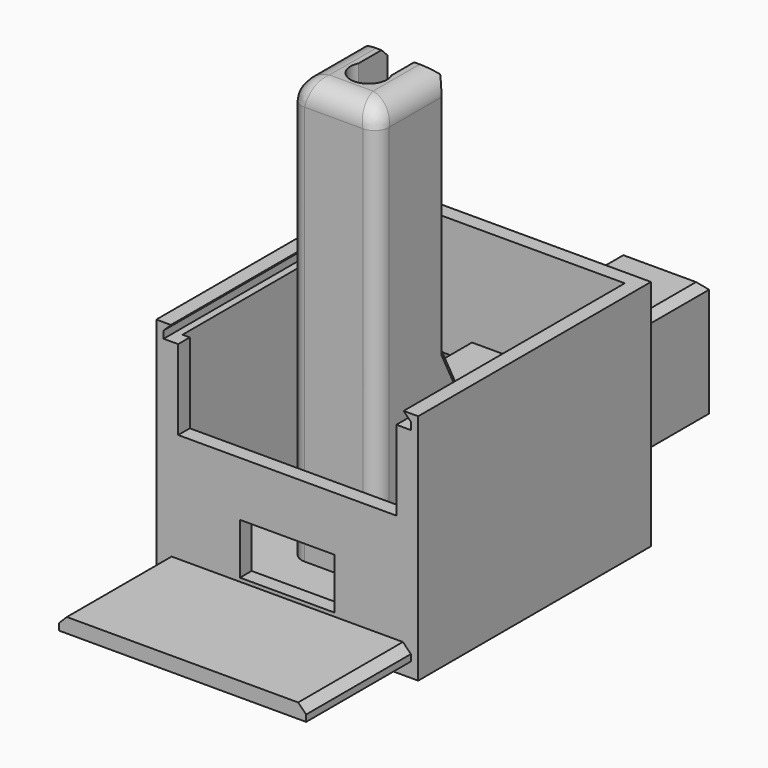
from build123d import *

# Parameters (mm, degrees)
PAD_DEPTH       = 6
POCKET_DEPTH    = 10
POCKET001_DEPTH = 1
SKETCH003_R     = 4
POCKET002_DEPTH = 50.001
SKETCH004_R     = 4
POCKET003_DEPTH = 48.001
CHAMFER_SIZE    = 1
FILLET_R        = 2
FILLET001_R     = 3
CHAMFER001_SIZE = 0.49
SKETCH005_W     = 32
SKETCH005_H     = 36
PAD001_DEPTH    = 30
THICKNESS_T     = 2
SKETCH006_W     = 13
SKETCH006_H     = 7
POCKET004_DEPTH = 20.001
SKETCH007_W     = 8
SKETCH007_H     = 5
POCKET005_DEPTH = 20.001
POCKET006_START = -2
POCKET006_DEPTH = 98
SKETCH012_W     = 30
SKETCH012_H     = 10
POCKET007_DEPTH = 20.001
PAD003_DEPTH    = 38
PAD004_DEPTH    = 16


with BuildPart() as body:
    # Sketch → Pad (new body, symmetric)
    with BuildSketch(Plane.YZ):
        Polygon((45, 0), (-12, 0), (-12, 60), (0, 60), (0, 26), (5, 16), (45, 16), align=None)
    extrude(amount=PAD_DEPTH, both=True)

    # Sketch001 (on Face3 of Pad) → Pocket (cut)
    with BuildSketch(Plane(origin=(0, 0, 60), x_dir=(0, -1, 0), z_dir=(0, 0, 1))):
        with BuildLine():
            Line((-8, 2.25), (-8, -2.25))
            Line((-8, -2.25), (4.910275, -2.25))
            ThreePointArc((4.910275, -2.25), (8.5, 0), (4.910275, 2.25))
            Line((4.910275, 2.25), (-8, 2.25))
        make_face()
    extrude(amount=-POCKET_DEPTH, mode=Mode.SUBTRACT)

    # Sketch002 (on Face3 of Pad) → Pocket001 (cut)
    with BuildSketch(Plane(origin=(0, 0, 55), x_dir=(0, -1, 0), z_dir=(0, 0, 1))):
        with BuildLine():
            Line((-4, 3), (-4, -3))
            Line((-4, -3), (6, -3))
            ThreePointArc((6, -3), (9, 0), (6, 3))
            Line((6, 3), (-4, 3))
        make_face()
    extrude(amount=-POCKET001_DEPTH, mode=Mode.SUBTRACT)

    # Sketch003 (on Face3 of Pad) → Pocket002 (cut, through all)
    with BuildSketch(Plane(origin=(0, 0, 50), x_dir=(0, -1, 0), z_dir=(0, 0, 1))):
        with Locations((3, 0)):
            Circle(SKETCH003_R)
    extrude(amount=-POCKET002_DEPTH, mode=Mode.SUBTRACT)

    # Sketch004 → Pocket003 (cut, through all)
    with BuildSketch(Plane.XZ.offset(3)):
        Circle(SKETCH004_R)
    extrude(amount=-POCKET003_DEPTH, mode=Mode.SUBTRACT)

    # Chamfer
    chamfer_edges = [body.edges().sort_by_distance(p)[0] for p in [
        (6, 25, 16),
        (-6, 25, 16),
        (0, 45, 16),
        (6, 2.5, 21),
        (-6, 2.5, 21),
        (6, 0, 43),
        (-6, 0, 43),
        (4.125, 0, 60),
        (-4.125, 0, 60),
    ]]
    chamfer(chamfer_edges, length=CHAMFER_SIZE)

    # Fillet
    fillet_edges = [body.edges().sort_by_distance(p)[0] for p in [
        (-6, -12, 30),
        (6, -12, 30),
    ]]
    fillet(fillet_edges, radius=FILLET_R)

    # Fillet001
    fillet001_edges = [body.edges().sort_by_distance(p)[0] for p in [
        (0, -12, 60),
        (6, -5.5, 60),
        (-6, -5.5, 60),
    ]]
    fillet(fillet001_edges, radius=FILLET001_R)

    # Chamfer001
    chamfer001_edges = [body.edges().sort_by_distance(p)[0] for p in [
        (0, -8.5, 55),
        (-2.25, -2.455138, 55),
        (2.25, -2.455138, 55),
    ]]
    chamfer(chamfer001_edges, length=CHAMFER001_SIZE)


with BuildPart() as boxbody:
    # Sketch005 → Pad001 (new body)
    with BuildSketch(Plane.XY):
        Rectangle(SKETCH005_W, SKETCH005_H)
    extrude(amount=PAD001_DEPTH)

    # Thickness
    thickness_openings = [boxbody.faces().sort_by_distance(p)[0] for p in [
        (0, 0, 30),
    ]]
    offset(amount=THICKNESS_T, openings=thickness_openings, kind=Kind.INTERSECTION)

    # Sketch006 → Pocket004 (cut, through all)
    with BuildSketch(Plane.XZ):
        with Locations((0, 6)):
            Rectangle(SKETCH006_W, SKETCH006_H)
    extrude(amount=POCKET004_DEPTH, mode=Mode.SUBTRACT)

    # Sketch007 → Pocket005 (cut, through all)
    with BuildSketch(Plane.XZ):
        with Locations((-5.12, 11)):
            Rectangle(SKETCH007_W, SKETCH007_H)
    extrude(amount=-POCKET005_DEPTH, mode=Mode.SUBTRACT)

    # Sketch008 (on Face11 of Pocket005) → Pocket006 (cut)
    with BuildSketch(Plane(origin=(0, 20, 0), x_dir=(-1, 0, 0), z_dir=(0, 1, 0)).offset(POCKET006_START)):
        Polygon((-16, 30), (16, 30), (17, 29), (17, 28), (-17, 28), (-17, 29), align=None)
    extrude(amount=-POCKET006_DEPTH, mode=Mode.SUBTRACT)

    # Sketch012 → Pocket007 (cut, through all)
    with BuildSketch(Plane.XZ):
        with Locations((0, 22)):
            Rectangle(SKETCH012_W, SKETCH012_H)
        with Locations((0, 32)):
            Rectangle(SKETCH012_W, SKETCH012_H)
    extrude(amount=POCKET007_DEPTH, mode=Mode.SUBTRACT)


with BuildPart() as coverbody:
    # Sketch010 → Pad003 (new body)
    with BuildSketch(Plane.XZ):
        Polygon((-17, 0), (17, 0), (17, 0.9), (15.9, 2), (-15.9, 2), (-17, 0.9), align=None)
    extrude(amount=PAD003_DEPTH)

    # Sketch011 → Pad004 (join, symmetric)
    with BuildSketch(Plane.YZ):
        with BuildLine():
            Line((-4, 0), (-2, 0))
            ThreePointArc((-4, 0), (-3, -0.5), (-2, 0))
        make_face()
    extrude(amount=PAD004_DEPTH, both=True)


solid = Compound([body.part, boxbody.part, coverbody.part])
